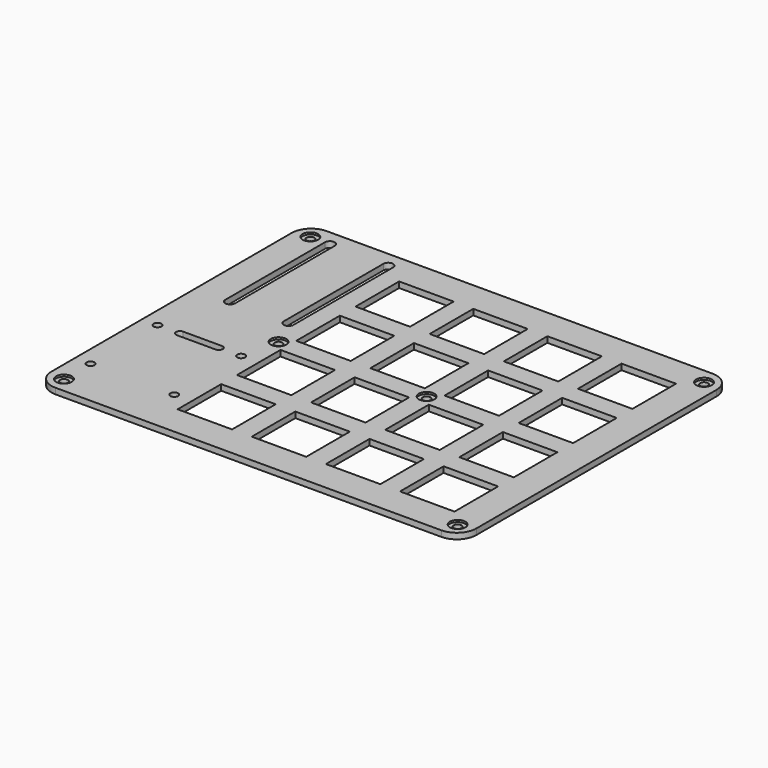
from build123d import *

# Parameters (mm, degrees)
SKETCH_R     = 1
SKETCH_W     = 14
SKETCH_H     = 14
PAD_DEPTH    = 1.5
POCKET_START = 1
SKETCH001_R  = 2
POCKET_DEPTH = 14


with BuildPart() as part:
    # Sketch → Pad (new body)
    with BuildSketch(Plane.XY):
        with BuildLine():
            Line((115.15, 33), (115.15, 110.15))
            ThreePointArc((115.15, 110.15), (113.685534, 113.685534), (110.15, 115.15))
            Line((110.15, 115.15), (11, 115.15))
            ThreePointArc((11, 115.15), (7.464466, 113.685534), (6, 110.15))
            Line((6, 110.15), (6, 33))
            ThreePointArc((6, 33), (7.464466, 29.464466), (11, 28))
            Line((11, 28), (110.15, 28))
            ThreePointArc((110.15, 28), (113.685534, 29.464466), (115.15, 33))
        make_face()
        with Locations((10, 111.15)):
            Circle(SKETCH_R, mode=Mode.SUBTRACT)
        with Locations((10, 32)):
            Circle(SKETCH_R, mode=Mode.SUBTRACT)
        with Locations((111.15, 32)):
            Circle(SKETCH_R, mode=Mode.SUBTRACT)
        with Locations((111.15, 111.15)):
            Circle(SKETCH_R, mode=Mode.SUBTRACT)
        with Locations((71.55, 71.55)):
            Circle(SKETCH_R, mode=Mode.SUBTRACT)
        with Locations((33.5, 71.55)):
            Circle(SKETCH_R, mode=Mode.SUBTRACT)
        with Locations((31.5, 62.05)):
            Circle(SKETCH_R, mode=Mode.SUBTRACT)
        with Locations((10, 62.05)):
            Circle(SKETCH_R, mode=Mode.SUBTRACT)
        with Locations((10, 40.55)):
            Circle(SKETCH_R, mode=Mode.SUBTRACT)
        with Locations((31.5, 40.55)):
            Circle(SKETCH_R, mode=Mode.SUBTRACT)
        with Locations((43, 43)):
            Rectangle(SKETCH_W, SKETCH_H, mode=Mode.SUBTRACT)
        with Locations((62.05, 43)):
            Rectangle(SKETCH_W, SKETCH_H, mode=Mode.SUBTRACT)
        with Locations((81.1, 43)):
            Rectangle(SKETCH_W, SKETCH_H, mode=Mode.SUBTRACT)
        with Locations((100.15, 43)):
            Rectangle(SKETCH_W, SKETCH_H, mode=Mode.SUBTRACT)
        with Locations((43, 62.05)):
            Rectangle(SKETCH_W, SKETCH_H, mode=Mode.SUBTRACT)
        with Locations((62.05, 62.05)):
            Rectangle(SKETCH_W, SKETCH_H, mode=Mode.SUBTRACT)
        with Locations((81.1, 62.05)):
            Rectangle(SKETCH_W, SKETCH_H, mode=Mode.SUBTRACT)
        with Locations((100.15, 62.05)):
            Rectangle(SKETCH_W, SKETCH_H, mode=Mode.SUBTRACT)
        with Locations((43, 81.1)):
            Rectangle(SKETCH_W, SKETCH_H, mode=Mode.SUBTRACT)
        with Locations((62.05, 81.1)):
            Rectangle(SKETCH_W, SKETCH_H, mode=Mode.SUBTRACT)
        with Locations((81.1, 81.1)):
            Rectangle(SKETCH_W, SKETCH_H, mode=Mode.SUBTRACT)
        with Locations((100.15, 81.1)):
            Rectangle(SKETCH_W, SKETCH_H, mode=Mode.SUBTRACT)
        with Locations((43, 100.15)):
            Rectangle(SKETCH_W, SKETCH_H, mode=Mode.SUBTRACT)
        with Locations((62.05, 100.15)):
            Rectangle(SKETCH_W, SKETCH_H, mode=Mode.SUBTRACT)
        with Locations((81.1, 100.15)):
            Rectangle(SKETCH_W, SKETCH_H, mode=Mode.SUBTRACT)
        with Locations((100.15, 100.15)):
            Rectangle(SKETCH_W, SKETCH_H, mode=Mode.SUBTRACT)
        with BuildLine():
            ThreePointArc((16.25, 111.15), (15, 112.4), (13.75, 111.15))
            Line((13.75, 111.15), (13.75, 79.15))
            ThreePointArc((13.75, 79.15), (15, 77.9), (16.25, 79.15))
            Line((16.25, 111.15), (16.25, 79.15))
        make_face(mode=Mode.SUBTRACT)
        with BuildLine():
            ThreePointArc((31.25, 111.15), (30, 112.4), (28.75, 111.15))
            Line((28.75, 111.15), (28.75, 79.15))
            ThreePointArc((28.75, 79.15), (30, 77.9), (31.25, 79.15))
            Line((31.25, 111.15), (31.25, 79.15))
        make_face(mode=Mode.SUBTRACT)
        with BuildLine():
            ThreePointArc((15.75, 63.05), (14.75, 62.05), (15.75, 61.05))
            Line((15.75, 61.05), (25.75, 61.05))
            ThreePointArc((25.75, 61.05), (26.75, 62.05), (25.75, 63.05))
            Line((15.75, 63.05), (25.75, 63.05))
        make_face(mode=Mode.SUBTRACT)
    extrude(amount=PAD_DEPTH)

    # Sketch001 → Pocket (cut)
    with BuildSketch(Plane.XY.offset(POCKET_START)):
        with Locations((10, 111.15)):
            Circle(SKETCH001_R)
        with Locations((10, 32)):
            Circle(SKETCH001_R)
        with Locations((111.15, 32)):
            Circle(SKETCH001_R)
        with Locations((111.15, 111.15)):
            Circle(SKETCH001_R)
        with Locations((71.55, 71.55)):
            Circle(SKETCH001_R)
        with Locations((33.5, 71.55)):
            Circle(SKETCH001_R)
    extrude(amount=POCKET_DEPTH, mode=Mode.SUBTRACT)


solid = part.part
